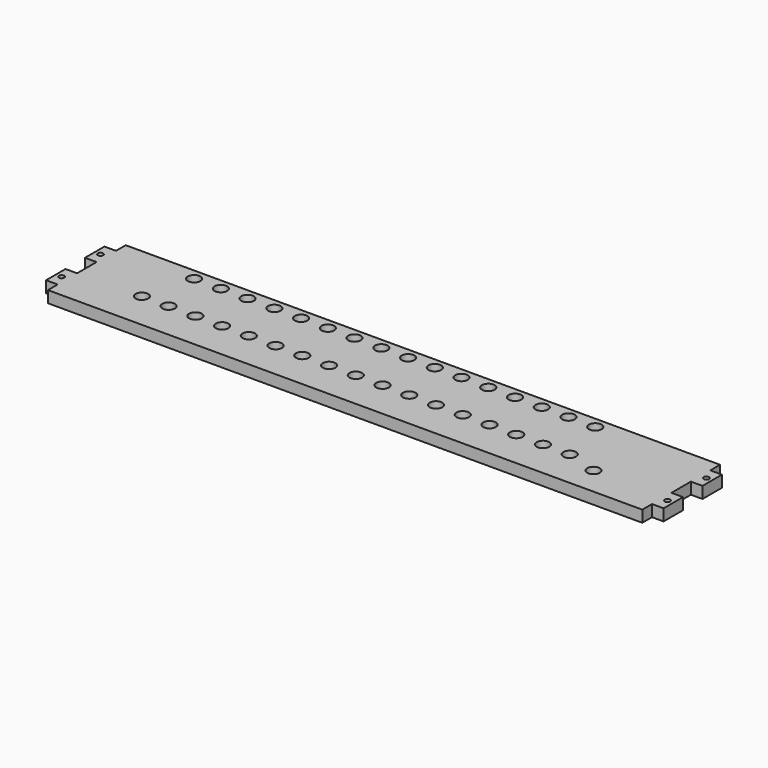
from build123d import *

# Parameters (mm, degrees)
F0_W     = 254
F0_H     = 40
F1_DEPTH = 4.7625
F2_R     = 2.6
F3_DEPTH = 25.4
F4_W     = 4.7625
F4_H     = 5
F5_DEPTH = 25.4
F6_R     = 1.1
F7_DEPTH = 25.4


with BuildPart() as f1:
    # F0 (on Top) → F1 (new body)
    with BuildSketch(Plane.XY):
        Rectangle(F0_W, F0_H)
    extrude(amount=F1_DEPTH)

    # F2 (on face) → F3 (cut)
    with BuildSketch(Plane.XY.offset(4.7625)):
        with Locations((-96, -4.5)):
            Circle(F2_R)
        with Locations((-85, -4.5)):
            Circle(F2_R)
        with Locations((-74, -4.5)):
            Circle(F2_R)
        with Locations((-63, -4.5)):
            Circle(F2_R)
        with Locations((-52, -4.5)):
            Circle(F2_R)
        with Locations((-41, -4.5)):
            Circle(F2_R)
        with Locations((-30, -4.5)):
            Circle(F2_R)
        with Locations((-19, -4.5)):
            Circle(F2_R)
        with Locations((-8, -4.5)):
            Circle(F2_R)
        with Locations((3, -4.5)):
            Circle(F2_R)
        with Locations((14, -4.5)):
            Circle(F2_R)
        with Locations((25, -4.5)):
            Circle(F2_R)
        with Locations((36, -4.5)):
            Circle(F2_R)
        with Locations((47, -4.5)):
            Circle(F2_R)
        with Locations((58, -4.5)):
            Circle(F2_R)
        with Locations((69, -4.5)):
            Circle(F2_R)
        with Locations((80, -4.5)):
            Circle(F2_R)
        with Locations((-90.5, 15.5)):
            Circle(F2_R)
        with Locations((-79.5, 15.5)):
            Circle(F2_R)
        with Locations((-68.5, 15.5)):
            Circle(F2_R)
        with Locations((-57.5, 15.5)):
            Circle(F2_R)
        with Locations((-46.5, 15.5)):
            Circle(F2_R)
        with Locations((-35.5, 15.5)):
            Circle(F2_R)
        with Locations((-24.5, 15.5)):
            Circle(F2_R)
        with Locations((-13.5, 15.5)):
            Circle(F2_R)
        with Locations((-2.5, 15.5)):
            Circle(F2_R)
        with Locations((8.5, 15.5)):
            Circle(F2_R)
        with Locations((19.5, 15.5)):
            Circle(F2_R)
        with Locations((30.5, 15.5)):
            Circle(F2_R)
        with Locations((41.5, 15.5)):
            Circle(F2_R)
        with Locations((52.5, 15.5)):
            Circle(F2_R)
        with Locations((63.5, 15.5)):
            Circle(F2_R)
        with Locations((74.5, 15.5)):
            Circle(F2_R)
        with Locations((93, -8.5)):
            Circle(F2_R)
    extrude(amount=-F3_DEPTH, mode=Mode.SUBTRACT)

    # F4 (on face) → F5 (cut)
    with BuildSketch(Plane.XY.offset(4.7625)):
        with Locations((-124.61875, 17.5)):
            Rectangle(F4_W, F4_H)
        Polygon((-127, 5), (-127, 0), (-127, -5), (-122.2375, -5), (-122.2375, 0), (-122.2375, 5), align=None)
        with Locations((-124.61875, -17.5)):
            Rectangle(F4_W, F4_H)
        with Locations((124.61875, 17.5)):
            Rectangle(F4_W, F4_H)
        Polygon((127, -5), (127, 0), (127, 5), (122.2375, 5), (122.2375, 0), (122.2375, -5), align=None)
        with Locations((124.61875, -17.5)):
            Rectangle(F4_W, F4_H)
    extrude(amount=-F5_DEPTH, mode=Mode.SUBTRACT)

    # F6 (on face) → F7 (cut)
    with BuildSketch(Plane.XY.offset(4.7625)):
        with Locations((124.61875, 10)):
            Circle(F6_R)
        with Locations((124.61875, -10)):
            Circle(F6_R)
        with Locations((-124.61875, -10)):
            Circle(F6_R)
        with Locations((-124.61875, 10)):
            Circle(F6_R)
    extrude(amount=-F7_DEPTH, mode=Mode.SUBTRACT)


solid = f1.part
